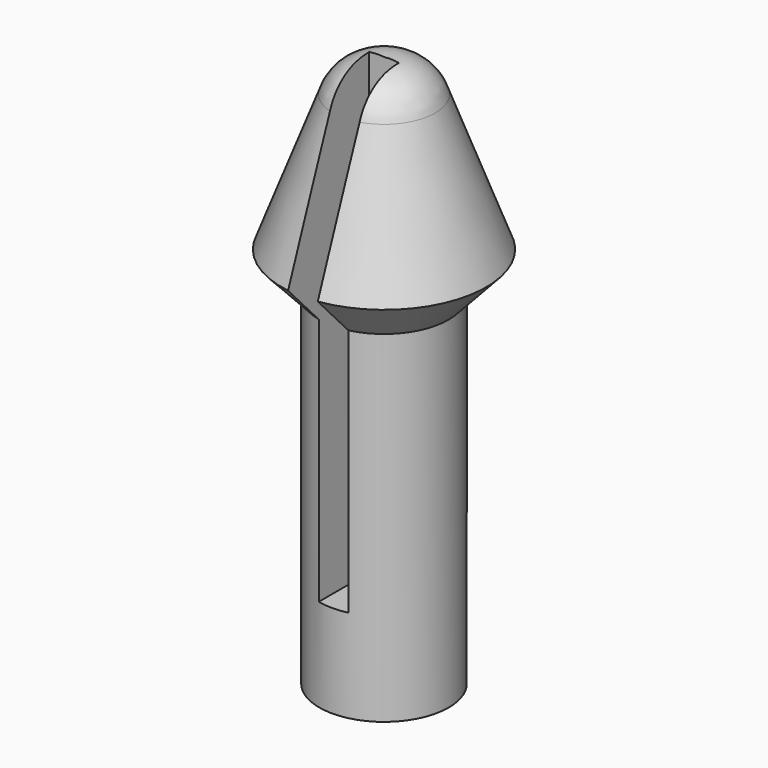
from build123d import *

# Parameters (mm, degrees)
F4_R      = 1.905
F2_R      = 3.81
F5_FACE_R = 3.81
F0_R      = 2.40665
F7_DEPTH  = 12.7
F12_W     = 1.1028264416
F12_H     = 38.8027336448
F13_DEPTH = 25.4


with BuildPart() as f5:
    # F4 (on offset) → F5 section 0
    with BuildSketch(Plane.XY.offset(6.604)):
        Circle(F4_R)
    # F2 (on offset) → F5 section 1
    with BuildSketch(Plane.XY.offset(1.524)):
        Circle(F2_R)
    loft()

    # F5_face (on face) → F6 section 0
    with BuildSketch(Plane(origin=(0, 0, 1.524), x_dir=(1, 0, 0), z_dir=(0, 0, -1))):
        Circle(F5_FACE_R)
    # F0 (on Top) → F6 section 1
    with BuildSketch(Plane.XY):
        Circle(F0_R)
    loft()

    # F0 (on Top) → F7 (join)
    with BuildSketch(Plane.XY):
        Circle(F0_R)
    extrude(amount=-F7_DEPTH)

    # F9 (on Front) → F11 (revolve)
    with BuildSketch(Plane.XZ):
        with BuildLine():
            Line((0, 6.604), (0, 7.8187098284))
            ThreePointArc((0, 7.8187098284), (-1.1744726921, 7.5594693104), (-1.905, 6.604))
            Line((-1.905, 6.604), (0, 6.604))
        make_face()
    revolve(axis=Axis((0, 0, 7.2099673588), (0, 0, -1)))

    # F12 (on Front) → F13 (cut)
    with BuildSketch(Plane.XZ):
        with Locations((0, 10.1560307667)):
            Rectangle(F12_W, F12_H)
    extrude(amount=F13_DEPTH, mode=Mode.SUBTRACT)


solid = f5.part
